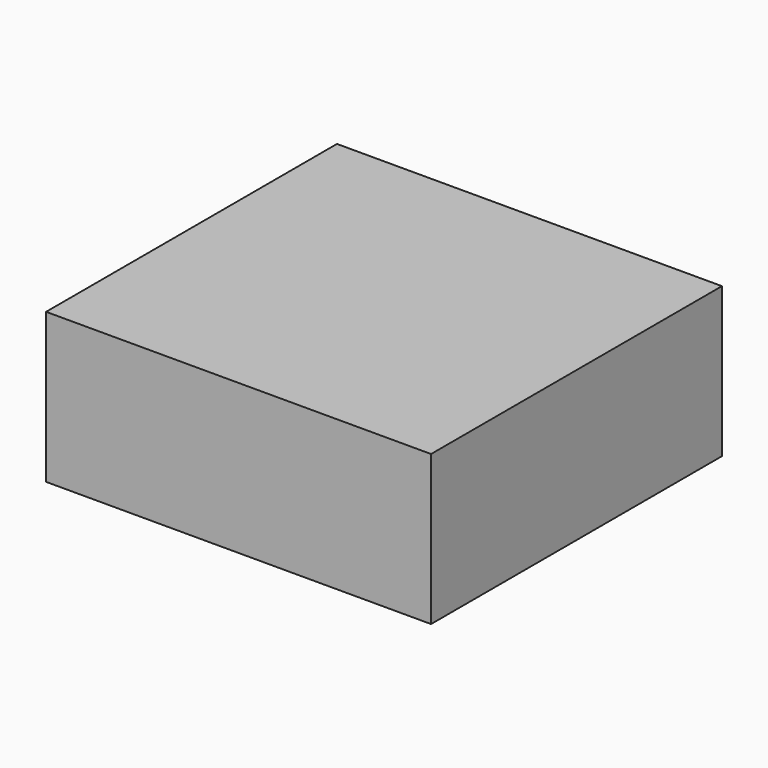
from build123d import *

# Parameters (mm, degrees)
SKETCH_W  = 180
SKETCH_H  = 170
PAD_DEPTH = 70


with BuildPart() as part:
    # Sketch → Pad (new body)
    with BuildSketch(Plane.XY):
        with Locations((-90, 85)):
            Rectangle(SKETCH_W, SKETCH_H)
    extrude(amount=PAD_DEPTH)


solid = part.part
